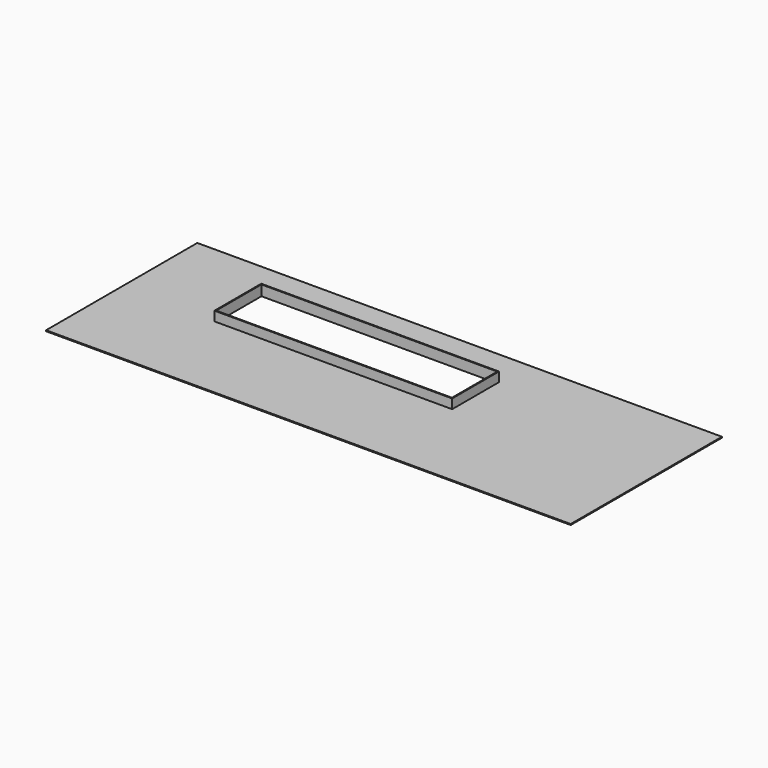
from build123d import *

# Parameters (mm, degrees)
F0_W     = 5562
F0_H     = 2004
F1_DEPTH = 10
F2_W     = 2500
F2_H     = 600
F3_DEPTH = 25
F4_W     = 2520
F4_H     = 620
F4_W_2   = 2500
F4_H_2   = 600
F5_DEPTH = 100


with BuildPart() as f1:
    # F0 (on Top) → F1 (new body)
    with BuildSketch(Plane.XY):
        with Locations((-2745.279001, 956.213645)):
            Rectangle(F0_W, F0_H)
    extrude(amount=F1_DEPTH)

    # F2 (on face) → F3 (cut)
    with BuildSketch(Plane.XY.offset(10)):
        with Locations((-3276.279001, 1258.213645)):
            Rectangle(F2_W, F2_H)
    extrude(amount=-F3_DEPTH, mode=Mode.SUBTRACT)

    # F4 (on face) → F5 (join)
    with BuildSketch(Plane.XY.offset(10)):
        with Locations((-3276.279001, 1258.213645)):
            Rectangle(F4_W, F4_H)
        with Locations((-3276.279001, 1258.213645)):
            Rectangle(F4_W_2, F4_H_2, mode=Mode.SUBTRACT)
    extrude(amount=F5_DEPTH)


solid = f1.part
